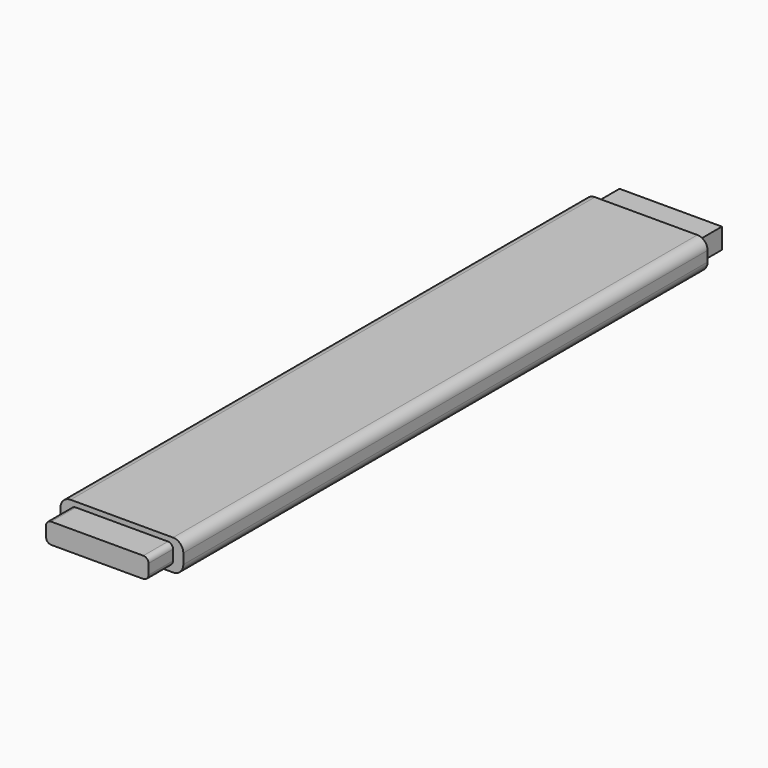
from build123d import *

# Parameters (mm, degrees)
F0_W     = 76.2
F0_H     = 19.05
F1_DEPTH = 406.4
F2_W     = 63.5
F2_H     = 12.7
F3_DEPTH = 19.05
F4_R     = 6.35
F5_W     = 63.5
F5_H     = 12.7
F6_DEPTH = 19.05
F7_R     = 3.175


with BuildPart() as f1:
    # F0 (on Front) → F1 (new body)
    with BuildSketch(Plane.XZ):
        with Locations((3.478697, 20.384602)):
            Rectangle(F0_W, F0_H)
    extrude(amount=-F1_DEPTH)

    # F2 (on face) → F3 (join)
    with BuildSketch(Plane.XZ):
        with Locations((3.478697, 20.384602)):
            Rectangle(F2_W, F2_H)
    extrude(amount=F3_DEPTH)

    # F4
    f4_edges = [f1.edges().sort_by_distance(p)[0] for p in [
        (41.578697, 203.2, 29.909602),
        (41.578697, 203.2, 10.859602),
        (-34.621303, 203.2, 29.909602),
        (-34.621303, 203.2, 10.859602),
    ]]
    fillet(f4_edges, radius=F4_R)

    # F5 (on face) → F6 (join)
    with BuildSketch(Plane(origin=(0, 406.4, 0), x_dir=(-1, 0, 0), z_dir=(0, 1, 0))):
        with Locations((-3.478697, 20.384602)):
            Rectangle(F5_W, F5_H)
    extrude(amount=F6_DEPTH)

    # F7
    f7_edges = [f1.edges().sort_by_distance(p)[0] for p in [
        (35.228697, -9.525, 26.734602),
        (35.228697, -9.525, 14.034602),
        (-28.271303, -9.525, 26.734602),
        (-28.271303, -9.525, 14.034602),
    ]]
    fillet(f7_edges, radius=F7_R)


solid = f1.part
